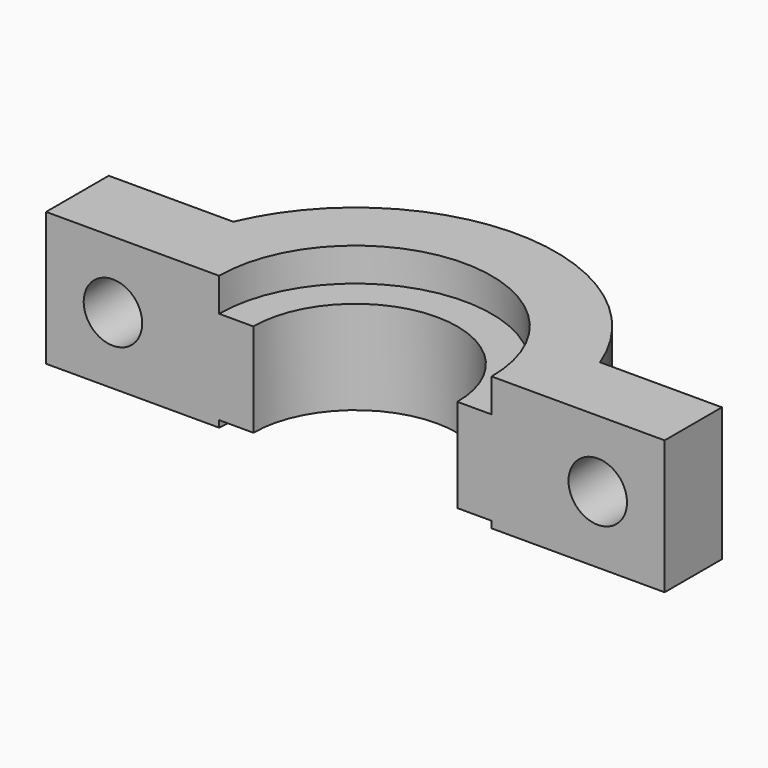
from build123d import *

# Parameters (mm, degrees)
F1_DEPTH  = 8
F2_R      = 1.75
F3_DEPTH  = 4.2837432044
F4_R      = 1.75
F5_DEPTH  = 25
F6_R      = 8.15
F7_DEPTH  = 2
F8_R      = 6.1
F9_DEPTH  = 5.6
F10_R     = 8.15
F11_DEPTH = 25


with BuildPart() as f1:
    # F0 (on Top) → F1 (new body)
    with BuildSketch(Plane.XY):
        with BuildLine():
            Line((18.5, 4.2827432044), (11.2097328534, 4.2827432044))
            ThreePointArc((11.2097328534, 4.2827432044), (0.2159454588, 11.9980568243), (-11.0483577501, 4.6833525412))
            Line((-11.0483577501, 4.6833525412), (-18.5, 4.6833525412))
            Line((-18.5, 4.6833525412), (-18.5, 0))
            Line((-18.5, 0), (-12, 0))
            Line((-12, 0), (12, 0))
            Line((12, 0), (18.5, 0))
            Line((18.5, 0), (18.5, 4.2827432044))
        make_face()
    extrude(amount=F1_DEPTH)

    # F2 (on face) → F3 (cut, through all)
    with BuildSketch(Plane(origin=(0, 4.2827432044, 0), x_dir=(-1, 0, 0), z_dir=(0, 1, 0))):
        with Locations((-14.5, 4)):
            Circle(F2_R)
        with Locations((14.5, 4)):
            Circle(F2_R)
    extrude(amount=-F3_DEPTH, mode=Mode.SUBTRACT)

    # F4 (on face) → F5 (cut)
    with BuildSketch(Plane(origin=(0, 4.6833525412, 0), x_dir=(-1, 0, 0), z_dir=(0, 1, 0))):
        with Locations((14.5, 4)):
            Circle(F4_R)
    extrude(amount=-F5_DEPTH, mode=Mode.SUBTRACT)

    # F6 (on face) → F7 (cut)
    with BuildSketch(Plane.XY.offset(8)):
        Circle(F6_R)
    extrude(amount=-F7_DEPTH, mode=Mode.SUBTRACT)

    # F8 (on face) → F9 (cut)
    with BuildSketch(Plane.XY.offset(6)):
        Circle(F8_R)
    extrude(amount=-F9_DEPTH, mode=Mode.SUBTRACT)

    # F10 (on face) → F11 (cut)
    with BuildSketch(Plane.XY.offset(0.4)):
        Circle(F10_R)
    extrude(amount=-F11_DEPTH, mode=Mode.SUBTRACT)


solid = f1.part
